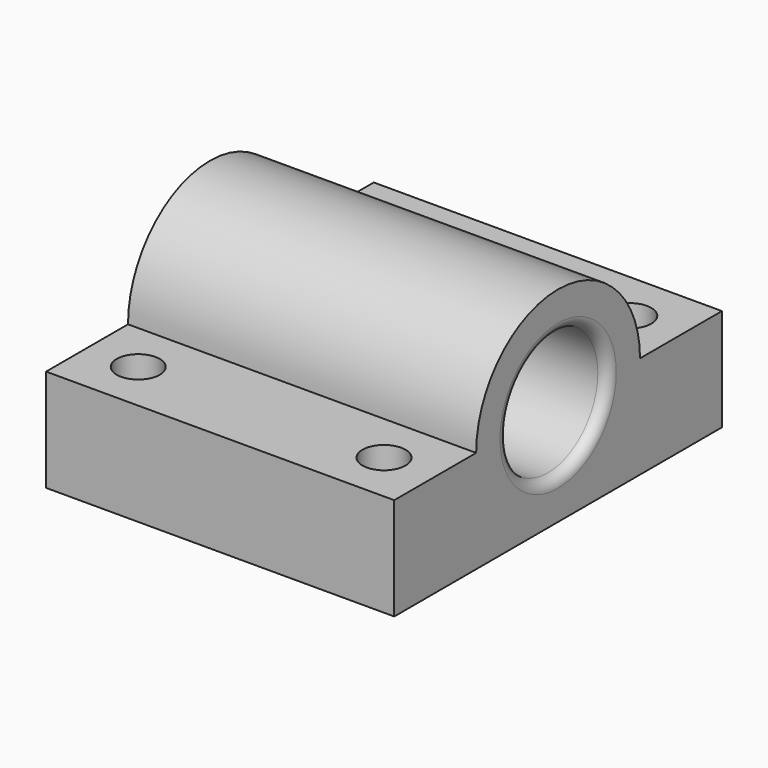
from build123d import *

# Parameters (mm, degrees)
SKETCH_R                 = 3.05
PAD_DEPTH                = 7
PAD_DEPTH_BACK           = 10
SKETCH001_R              = 1.05
POCKET_DEPTH             = 5
FILLET_R                 = 0.5
CLONE004_PLACEMENT_ANGLE = 90


with BuildPart() as part:
    # Sketch → Pad (new body, two sides)
    with BuildSketch(Plane.XZ) as pad_sk:
        with BuildLine():
            Line((10, 0), (10, -5))
            Line((10, -5), (-10, -5))
            Line((-10, -5), (-10, 0))
            Line((-10, 0), (-5, 0))
            ThreePointArc((5, 0), (0, 5), (-5, 0))
            Line((10, 0), (5, 0))
        make_face()
        Circle(SKETCH_R, mode=Mode.SUBTRACT)
    extrude(amount=PAD_DEPTH)
    extrude(pad_sk.sketch, amount=-PAD_DEPTH_BACK)

    # Sketch001 → Pocket (cut)
    with BuildSketch(Plane(origin=(0, 0, -5), x_dir=(1, 0, 0), z_dir=(0, 0, -1))):
        with Locations((-7.5, 4.5)):
            Circle(SKETCH001_R)
        with Locations((-7.5, -7.5)):
            Circle(SKETCH001_R)
        with Locations((7.5, -7.5)):
            Circle(SKETCH001_R)
        with Locations((7.5, 4.5)):
            Circle(SKETCH001_R)
    extrude(amount=-POCKET_DEPTH, mode=Mode.SUBTRACT)

    # Fillet
    fillet_edges = [part.edges().sort_by_distance(p)[0] for p in [
        (-3.05, 10, 0),
        (-3.05, -7, 0),
    ]]
    fillet(fillet_edges, radius=FILLET_R)


with BuildPart() as part_1:
    # Clone004 placement: moved
    add(part.part.moved(Location((1.5, 105, 11))).rotate(Axis((1.5, 105, 11), (0, 0, 1)), CLONE004_PLACEMENT_ANGLE))


solid = part_1.part
